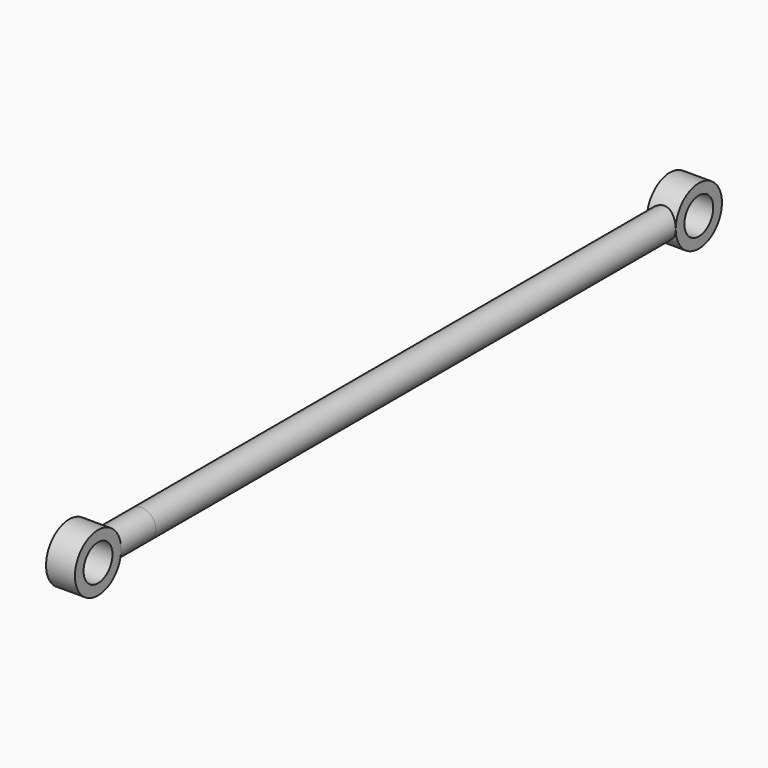
from build123d import *

# Parameters (mm, degrees)
F0_R          = 25.4
F0_R_2        = 15.875
F2_DEPTH      = 12.7
F3_DEPTH      = 12.7
F1_R          = 12.7
F4_DEPTH      = 42.6116161379
F4_DEPTH_BACK = 575.7942935499


with BuildPart() as f2:
    # F0 (on Right) → F2 (new body, symmetric)
    with BuildSketch(Plane.YZ):
        with Locations((-63.608661294, 0)):
            Circle(F0_R)
        with Locations((-63.608661294, 0)):
            Circle(F0_R_2, mode=Mode.SUBTRACT)
    extrude(amount=F2_DEPTH, both=True)



with BuildPart() as f3:
    # F0 (on Right) → F3 (new body, symmetric)
    with BuildSketch(Plane.YZ):
        with Locations((596.791338706, 0)):
            Circle(F0_R)
        with Locations((596.791338706, 0)):
            Circle(F0_R_2, mode=Mode.SUBTRACT)
    extrude(amount=F3_DEPTH, both=True)


with BuildPart() as f2_1:
    add(f2.part)

    add(f3.part)  # F4 merges F3
    # F1 (on Front) → F4 (join, two sides)
    with BuildSketch(Plane.XZ) as f4_sk:
        Circle(F1_R)
    extrude(amount=F4_DEPTH)
    extrude(f4_sk.sketch, amount=-F4_DEPTH_BACK)


solid = f2_1.part
